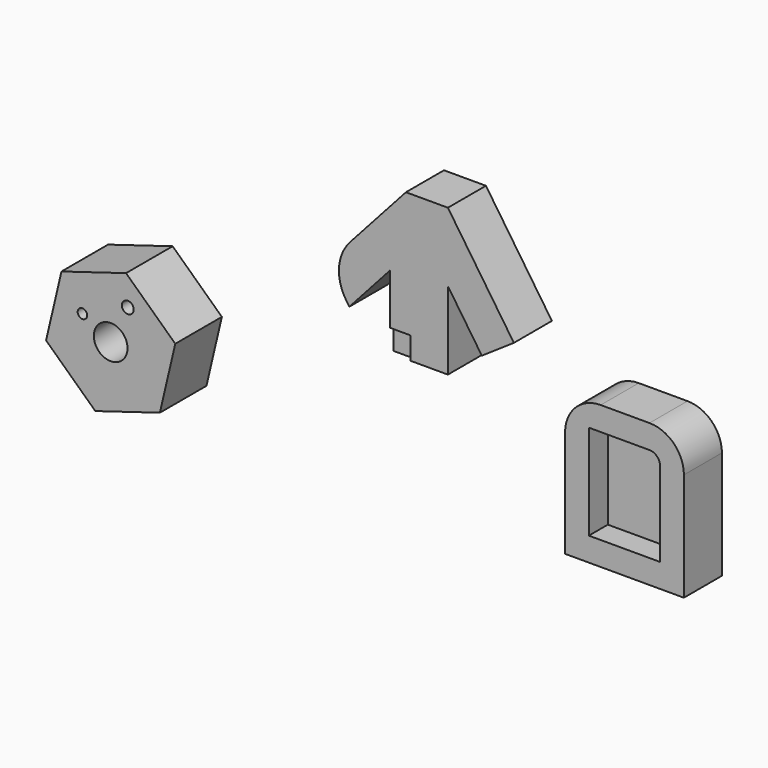
from build123d import *

# Parameters (mm, degrees)
F0_W            = 100
F0_H            = 120
F1_DEPTH        = 40
F0_R            = 14.1801468362
F2_R            = 28.9705627485
F3_T            = -20
F4_R            = 30
F5_R            = 14.1801468362
F6_DEPTH        = 9
F8_D            = 10
F8_CSINK_D      = 15
F8_CSINK_ANGLE  = 45
F9_R            = 35.9918588335
F10_D           = 8
F10_CBORE_D     = 10
F10_CBORE_DEPTH = 5
F11_W           = 39.1712635756
F11_H           = 31.8527948111
F12_DEPTH       = 35


with BuildPart() as f1:
    # F0 (on Front) → F1 (new body)
    with BuildSketch(Plane.XZ):
        Rectangle(F0_W, F0_H)
    extrude(amount=F1_DEPTH)

    # F2
    f2_edges = [f1.edges().sort_by_distance(p)[0] for p in [
        (50, -20, 60),
    ]]
    fillet(f2_edges, radius=F2_R)

    # F3
    f3_openings = [f1.faces().sort_by_distance(p)[0] for p in [
        (-0.663303, -40, -0.815685),
    ]]
    offset(amount=F3_T, openings=f3_openings)

    # F4
    f4_edges = [f1.edges().sort_by_distance(p)[0] for p in [
        (-50, -20, 60),
    ]]
    fillet(f4_edges, radius=F4_R)


with BuildPart() as f1b:
    # F0 (on Front) → F1, piece 2 (new body)
    with BuildSketch(Plane.XZ):
        Polygon((-183.8974500989, 164.3493920565), (-250.1836888026, 90.7151665284), (-231.5011774537, 64.0467909076), (-197.4093313992, 101.9177989801), (-197.4093313992, 40.7066182783), (-148.5862582922, 40.7066182783), (-148.5862582922, 106.2484012785), (-120.0294499633, 64.0467909076), (-93.062030872, 82.294990712), (-148.5862582922, 164.3493920565), align=None)
    extrude(amount=F1_DEPTH)

    # F9
    f9_edges = [f1b.edges().sort_by_distance(p)[0] for p in [
        (-250.183689, -20, 90.715167),
    ]]
    fillet(f9_edges, radius=F9_R)

    # F11 (on offset) → F12 (cut)
    with BuildSketch(Plane.XZ.offset(71)):
        with Locations((-199.6132209897, 43.6267340556)):
            Rectangle(F11_W, F11_H)
    extrude(amount=-F12_DEPTH, mode=Mode.SUBTRACT)


with BuildPart() as f1c:
    # F0 (on Front) → F1, piece 3 (new body)
    with BuildSketch(Plane.XZ):
        Polygon((-438.1025420747, -76.7821108959), (-383.7468040862, -60.3391790726), (-370.8089317636, -5.0442632215), (-412.2267974295, 33.8077208064), (-466.582535418, 17.3647889831), (-479.5204077406, -37.9301268681), align=None)
        with Locations((-425.1646697521, -21.4871950448)):
            Circle(F0_R, mode=Mode.SUBTRACT)
    extrude(amount=F1_DEPTH)

    # F5 (on face) + F0 (on Front) → F6 (join)
    with BuildSketch(Plane.XZ.offset(40)):
        Polygon((-479.5204077406, -37.9301268681), (-438.1025420747, -76.7821108959), (-383.7468040862, -60.3391790726), (-370.8089317636, -5.0442632215), (-412.2267974295, 33.8077208064), (-466.582535418, 17.3647889831), align=None)
        with Locations((-425.1646697521, -21.4871950448)):
            Circle(F5_R, mode=Mode.SUBTRACT)
    with BuildSketch(Plane.XZ):
        Polygon((-438.1025420747, -76.7821108959), (-383.7468040862, -60.3391790726), (-370.8089317636, -5.0442632215), (-412.2267974295, 33.8077208064), (-466.582535418, 17.3647889831), (-479.5204077406, -37.9301268681), align=None)
        with Locations((-425.1646697521, -21.4871950448)):
            Circle(F0_R, mode=Mode.SUBTRACT)
    extrude(amount=F6_DEPTH)

    # F8 (through all)
    with Locations(Plane(origin=(0, 0, 0), x_dir=(1, 0, 0), z_dir=(0, 1, 0))):
        with Locations((-410.741686821, -8.8568972424)):
            CounterSinkHole(F8_D / 2, F8_CSINK_D / 2, counter_sink_angle=F8_CSINK_ANGLE)

    # F10 (through all)
    with Locations(Plane(origin=(0, 0, 0), x_dir=(1, 0, 0), z_dir=(0, 1, 0))):
        with Locations((-448.9437639713, 8.1566572189)):
            CounterBoreHole(F10_D / 2, F10_CBORE_D / 2, F10_CBORE_DEPTH)


solid = Compound([f1.part, f1b.part, f1c.part])
